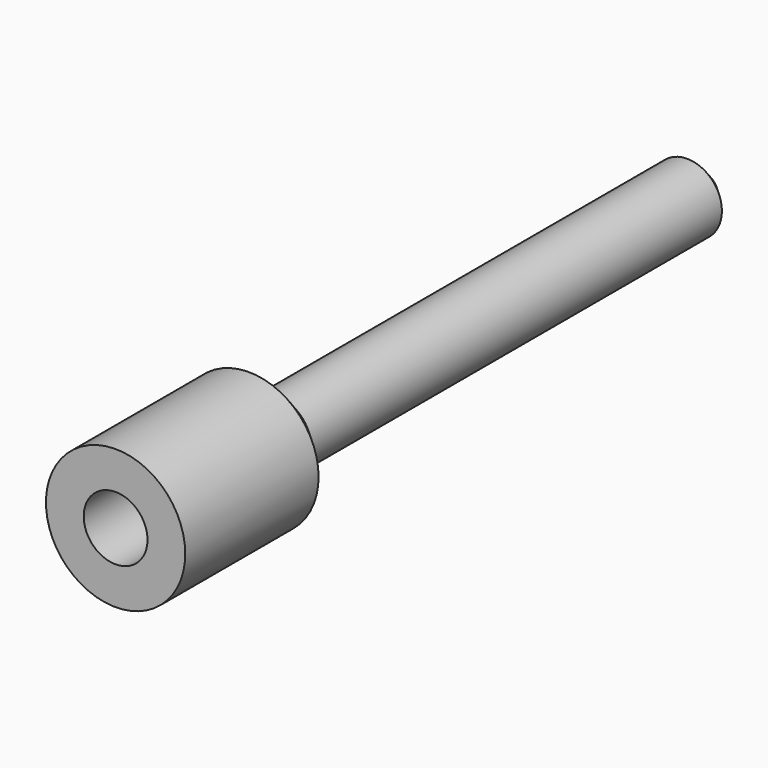
from build123d import *

# Parameters (mm, degrees)
F0_R     = 101.843803
F0_R_2   = 46.640997
F1_DEPTH = 269.139469
F2_R     = 50.778729
F3_DEPTH = 801.080585
F4_SIZE  = 25.4


with BuildPart() as f1:
    # F0 (on Front) → F1 (new body)
    with BuildSketch(Plane.XZ):
        Circle(F0_R)
        Circle(F0_R_2, mode=Mode.SUBTRACT)
    extrude(amount=F1_DEPTH)

    # F2 (on Front) → F3 (join)
    with BuildSketch(Plane.XZ):
        Circle(F2_R)
    extrude(amount=-F3_DEPTH)

    # F4
    f4_edges = [f1.edges().sort_by_distance(p)[0] for p in [
        (50.778729, 400.540292, 0),
        (-50.778729, 0, 0),
        (-50.778729, 801.080585, 0),
        (-101.843803, 0, 0),
    ]]
    chamfer(f4_edges, length=F4_SIZE)


solid = f1.part
